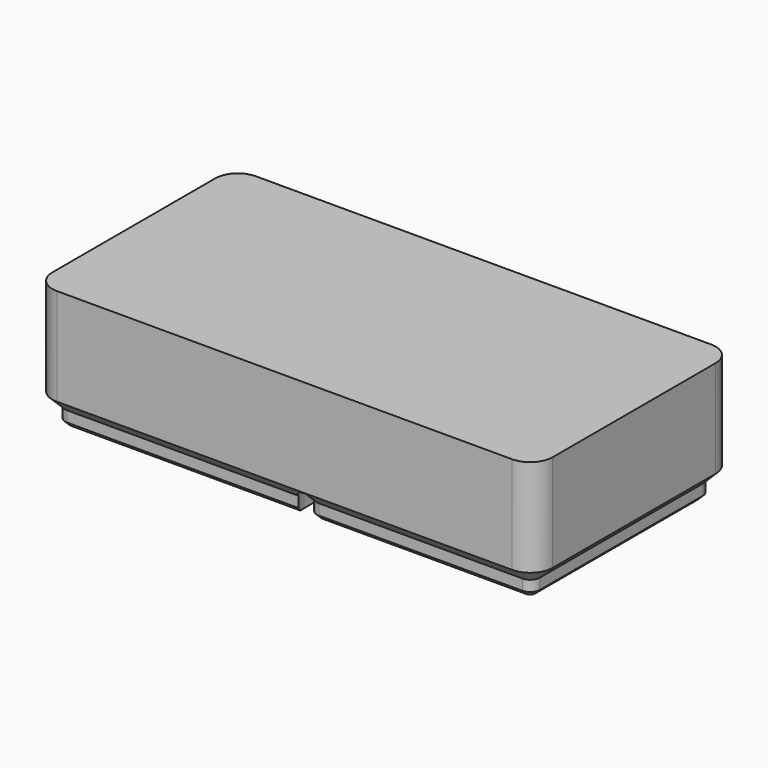
from build123d import *

# Parameters (mm, degrees)
PAD001_DEPTH           = 21
LINEARPATTERN002_COUNT = 2
LINEARPATTERN002_PITCH = 42


with BuildPart() as part:
    # Sketch004 → Pad001 (new body)
    with BuildSketch(Plane.XY):
        with BuildLine():
            Line((-38, -20.75), (38, -20.75))
            ThreePointArc((38, -20.75), (40.65165, -19.65165), (41.75, -17))
            Line((41.75, -17), (41.75, 17))
            ThreePointArc((41.75, 17), (40.65165, 19.65165), (38, 20.75))
            Line((38, 20.75), (-38, 20.75))
            ThreePointArc((-38, 20.75), (-40.65165, 19.65165), (-41.75, 17))
            Line((-41.75, 17), (-41.75, -17))
            ThreePointArc((-41.75, -17), (-40.65165, -19.65165), (-38, -20.75))
        make_face()
    extrude(amount=PAD001_DEPTH)

    # SubtractivePipe001: sweep along a path in Sketch004
    with BuildLine(Plane.XY) as subtractivepipe001_path:
        Line((-38, -20.75), (38, -20.75))
        ThreePointArc((38, -20.75), (40.65165, -19.65165), (41.75, -17))
        Line((41.75, -17), (41.75, 17))
        ThreePointArc((41.75, 17), (40.65165, 19.65165), (38, 20.75))
        Line((38, 20.75), (-38, 20.75))
        ThreePointArc((-38, 20.75), (-40.65165, 19.65165), (-41.75, 17))
        Line((-41.75, 17), (-41.75, -17))
        ThreePointArc((-41.75, -17), (-40.65165, -19.65165), (-38, -20.75))
    # Sketch005 → SubtractivePipe001 (sweep, cut)
    with BuildSketch(Plane.XZ):
        Polygon((41.75, 4.75), (39.6, 2.6), (39.6, 0.8), (38.8, 0), (41.75, 0), align=None)
    subtractivepipe001 = sweep(path=subtractivepipe001_path.line, mode=Mode.SUBTRACT)

    # LinearPattern002: SubtractivePipe001 ×2
    with Locations(*[(i * LINEARPATTERN002_PITCH, 0, 0) for i in range(1, LINEARPATTERN002_COUNT)]):
        add(subtractivepipe001, mode=Mode.SUBTRACT)


solid = part.part
